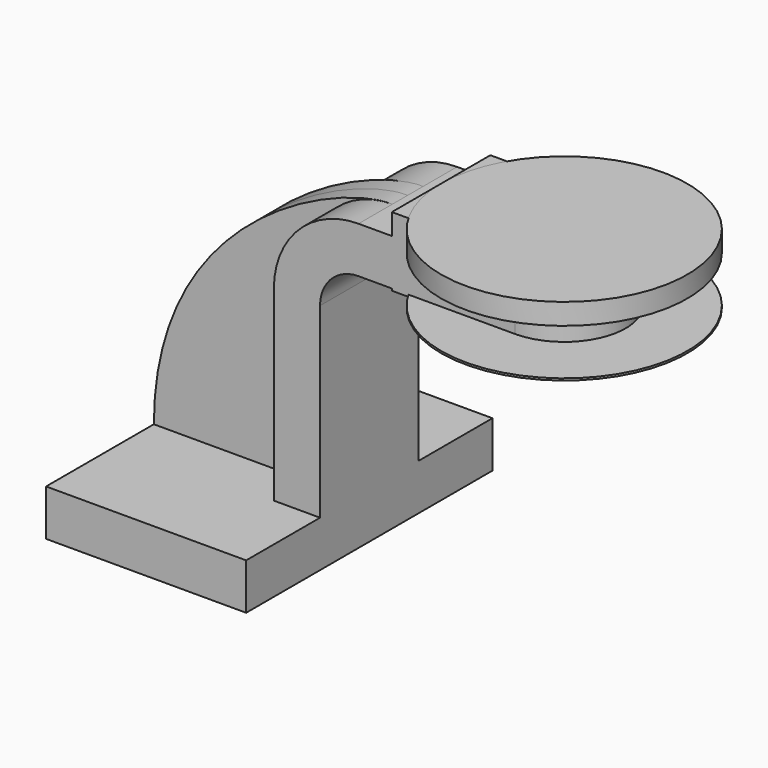
from build123d import *

# Parameters (mm, degrees)
F1_DEPTH = 63.5
F0_W     = 25.4
F0_H     = 19.05
F2_DEPTH = 25.4
F3_DEPTH = 7.9375


with BuildPart() as f1:
    # F0 (on Front) → F1 (new body, symmetric)
    with BuildSketch(Plane.XZ):
        Polygon((41.275, -9.525), (41.275, 9.525), (22.225, 9.525), (-41.275, 9.525), (-41.275, -9.525), align=None)
    extrude(amount=F1_DEPTH, both=True)

    # F0 (on Front) → F2 (join, symmetric)
    with BuildSketch(Plane.XZ):
        with BuildLine():
            Line((22.225, 9.525), (41.275, 9.525))
            Line((41.275, 9.525), (41.275, 86.543629))
            ThreePointArc((41.275, 86.543629), (45.92468, 97.768949), (57.15, 102.418629))
            Line((57.15, 102.418629), (70.900955, 102.418629))
            Line((70.900955, 102.418629), (70.900955, 121.468629))
            Line((70.900955, 121.468629), (57.15, 121.468629))
            ThreePointArc((57.15, 121.468629), (32.454296, 111.239333), (22.225, 86.543629))
            Line((22.225, 86.543629), (22.225, 9.525))
        make_face()
        Polygon((96.300955, 102.418629), (70.900955, 102.418629), (70.900955, 101.6), (121.700955, 101.6), (121.700955, 130.175), (70.900955, 130.175), (70.900955, 121.468629), (96.300955, 121.468629), align=None)
        with Locations((83.600955, 111.943629)):
            Rectangle(F0_W, F0_H)
    extrude(amount=F2_DEPTH, both=True)

    # F0 (on Front) → F3 (join, symmetric)
    with BuildSketch(Plane.XZ):
        with BuildLine():
            Line((-41.275, 9.525), (22.225, 9.525))
            Line((22.225, 9.525), (22.225, 86.543629))
            ThreePointArc((22.225, 86.543629), (32.454296, 111.239333), (57.15, 121.468629))
            add(Edge.make_bspline(
                [(-41.275, 9.525), (-41.035183, 91.519339), (36.089094, 122.064555), (57.15, 121.468629)],
                knots=[0, 0, 0, 0, 149.059909, 149.059909, 149.059909, 149.059909], degree=3))
        make_face()
    extrude(amount=F3_DEPTH, both=True)


with BuildPart() as f4:
    # F0 (on Front) → F4 (revolve)
    with BuildSketch(Plane.XZ):
        Polygon((96.300955, 102.418629), (70.900955, 102.418629), (70.900955, 101.6), (121.700955, 101.6), (121.700955, 130.175), (70.900955, 130.175), (70.900955, 121.468629), (96.300955, 121.468629), align=None)
    revolve(axis=Axis((121.700955, 0, 115.8875), (0, 0, 1)))


solid = Compound([f1.part, f4.part])
